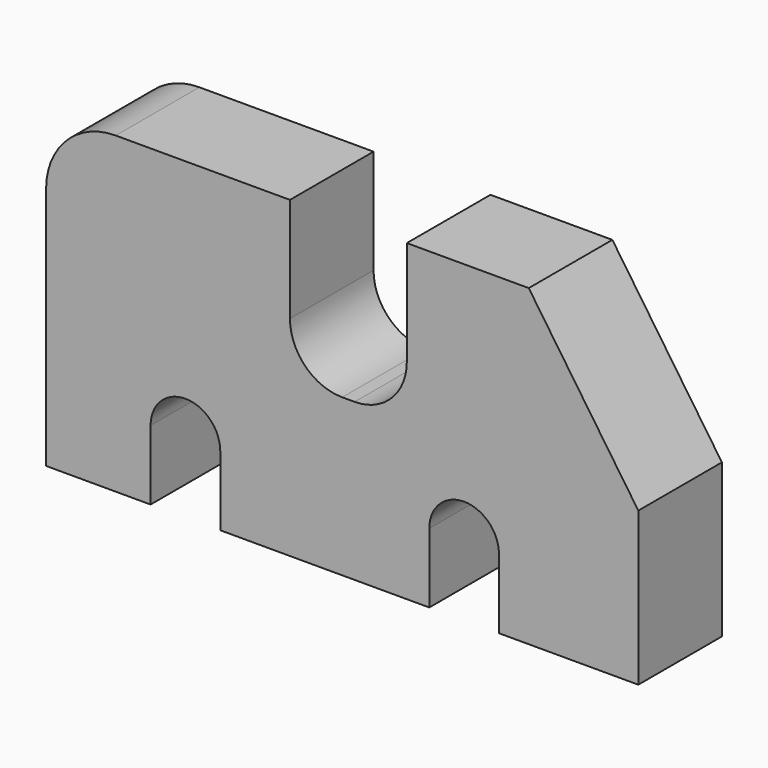
from build123d import *

# Parameters (mm, degrees)
F1_DEPTH = 30


with BuildPart() as f1:
    # F0 (on Front) → F1 (new body)
    with BuildSketch(Plane.XZ):
        with BuildLine():
            Line((-82.660393, 34.991289), (-82.660393, -35.008711))
            Line((-82.660393, -35.008711), (-52.660393, -35.008711))
            Line((-52.660393, -35.008711), (-52.660393, -15.008711))
            ThreePointArc((-52.660393, -15.008711), (-49.731461, -7.937643), (-42.660393, -5.008711))
            ThreePointArc((-42.660393, -5.008711), (-35.589325, -7.937643), (-32.660393, -15.008711))
            Line((-32.660393, -15.008711), (-32.660393, -35.008711))
            Line((-32.660393, -35.008711), (27.339607, -35.008711))
            Line((27.339607, -35.008711), (27.339607, -15.008711))
            ThreePointArc((27.339607, -15.008711), (30.268539, -7.937643), (37.339607, -5.008711))
            ThreePointArc((37.339607, -5.008711), (44.410675, -7.937643), (47.339607, -15.008711))
            Line((47.339607, -15.008711), (47.339607, -35.008711))
            Line((47.339607, -35.008711), (87.339607, -35.008711))
            Line((87.339607, -35.008711), (87.339607, 8.991289))
            Line((87.339607, 8.991289), (55.892236, 54.991289))
            Line((55.892236, 54.991289), (20.892236, 54.991289))
            Line((20.892236, 54.991289), (20.892236, 24.991289))
            ThreePointArc((20.892236, 24.991289), (16.498838, 14.384687), (5.892236, 9.991289))
            Line((5.892236, 9.991289), (2.339607, 9.991289))
            ThreePointArc((2.339607, 9.991289), (-8.266995, 14.384687), (-12.660393, 24.991289))
            Line((-12.660393, 24.991289), (-12.660393, 54.991289))
            Line((-12.660393, 54.991289), (-62.660393, 54.991289))
            ThreePointArc((-62.660393, 54.991289), (-76.802529, 49.133425), (-82.660393, 34.991289))
        make_face()
    extrude(amount=F1_DEPTH)


solid = f1.part
